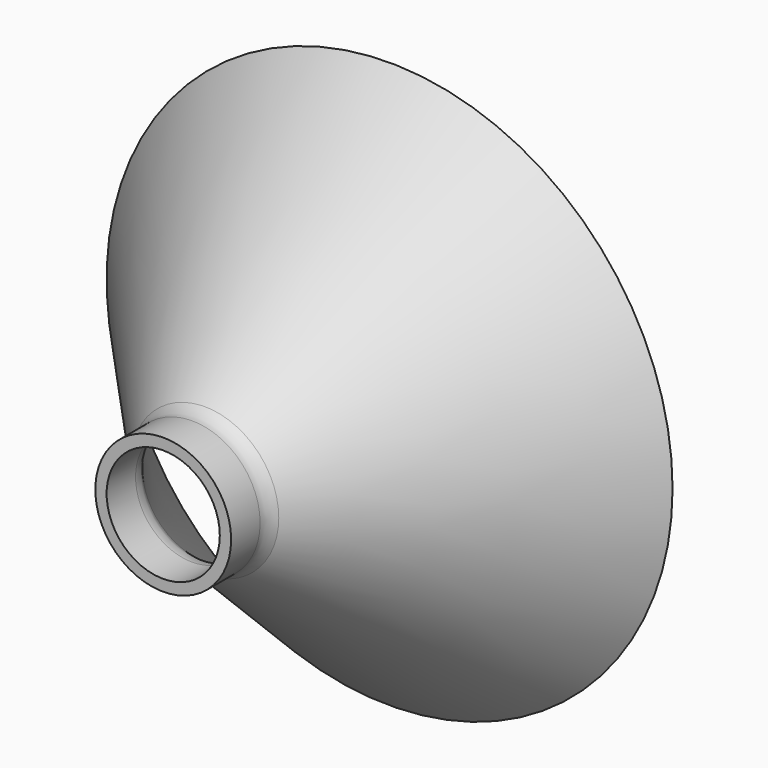
from build123d import *


with BuildPart() as part:
    # Sketch → Revolution (revolve)
    with BuildSketch(Plane.XY):
        with BuildLine():
            Line((10, 0), (12, 0))
            Line((12, 0), (12, 6.403799))
            ThreePointArc((13.070912, 9.18364), (12.276986, 7.893293), (12, 6.403799))
            Line((13.070912, 9.18364), (50, 50))
            Line((50, 50), (48.730875, 50))
            ThreePointArc((48.730875, 50), (48.062831, 49.858422), (47.509646, 49.45803))
            Line((47.509646, 49.45803), (11.078349, 9.19186))
            ThreePointArc((11.078349, 9.19186), (10.27891, 7.892552), (10, 6.392715))
            Line((10, 6.392715), (10, 0))
        make_face()
    revolve(axis=Axis((0, 0, 0), (0, 1, 0)))


solid = part.part
